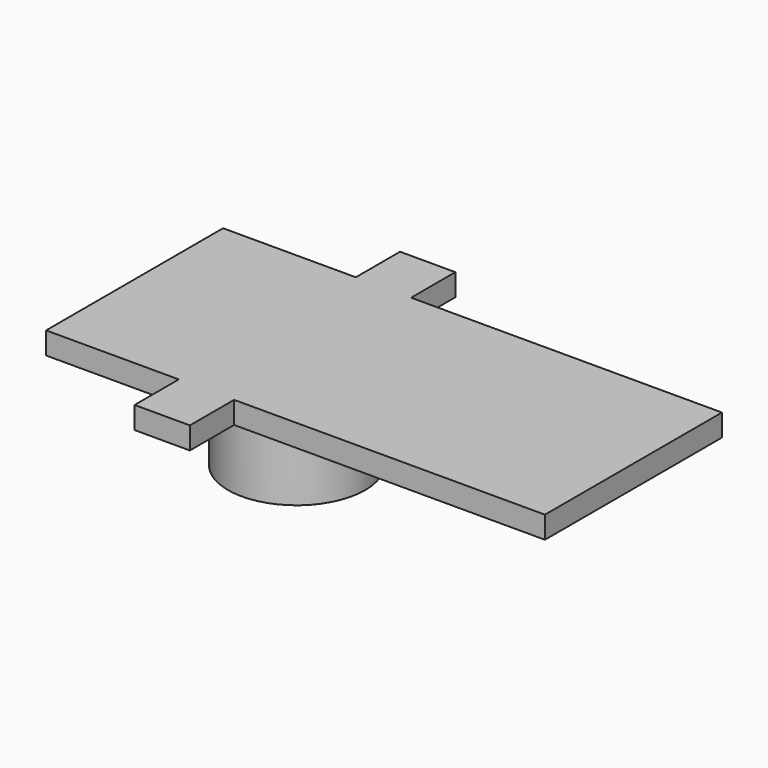
from build123d import *

# Parameters (mm, degrees)
CYLINDER003_R     = 6.2
CYLINDER003_DEPTH = 10
BOX006_W          = 45.1
BOX006_H          = 20
BOX006_DEPTH      = 2
BOX005_W          = 5
BOX005_H          = 5
BOX005_DEPTH      = 2
BOX004_W          = 5
BOX004_H          = 5
BOX004_DEPTH      = 2


with BuildPart() as cylinder:
    # Cylinder003 → Cylinder003 (new body)
    with BuildSketch(Plane(origin=(62.15, 0, -10), x_dir=(1, 0, 0), z_dir=(0, 0, 1))):
        Circle(CYLINDER003_R)
    extrude(amount=CYLINDER003_DEPTH)


with BuildPart() as cube003:
    # Box006 → Box006 (new body)
    with BuildSketch(Plane(origin=(47.5, -10, -2), x_dir=(1, 0, 0), z_dir=(0, 0, 1))):
        with Locations((22.55, 10)):
            Rectangle(BOX006_W, BOX006_H)
    extrude(amount=BOX006_DEPTH)


with BuildPart() as cube002:
    # Box005 → Box005 (new body)
    with BuildSketch(Plane(origin=(59.5, 10, -2), x_dir=(1, 0, 0), z_dir=(0, 0, 1))):
        with Locations((2.5, 2.5)):
            Rectangle(BOX005_W, BOX005_H)
    extrude(amount=BOX005_DEPTH)


with BuildPart() as obj1:
    # Box004 → Box004 (new body)
    with BuildSketch(Plane(origin=(59.5, -15, -2), x_dir=(1, 0, 0), z_dir=(0, 0, 1))):
        with Locations((2.5, 2.5)):
            Rectangle(BOX004_W, BOX004_H)
    extrude(amount=BOX004_DEPTH)

    # Fusion004: union Cube002
    add(cube002.part)

    # Fusion005: union Cube003
    add(cube003.part)

    # Fusion006: union Cylinder
    add(cylinder.part)


solid = obj1.part
